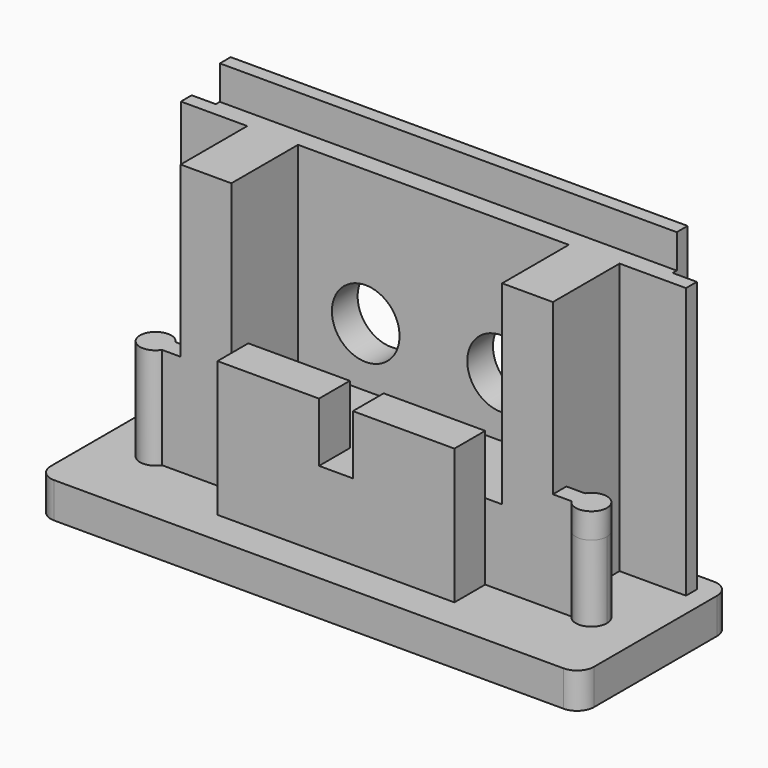
from build123d import *

# Parameters (mm, degrees)
F1_DEPTH  = 2.1
F2_W      = 27
F2_H      = 1.1
F3_DEPTH  = 4.5
F4_DEPTH  = 11.5
F5_R      = 2
F6_DEPTH  = 25
F7_W      = 22
F7_H      = 3.925
F8_DEPTH  = 4.5
F10_DEPTH = 11.5
F11_W     = 6
F11_H     = 2.275
F12_DEPTH = 8
F13_W     = 27
F13_H     = 0.8
F14_DEPTH = 2
F15_W     = 2
F15_H     = 2.275
F16_DEPTH = 4.5
F18_DEPTH = 10


with BuildPart() as f1:
    # F0 (on Top) → F1 (new body)
    with BuildSketch(Plane.XY):
        with BuildLine():
            Line((15.05, 5.55), (-15.05, 5.55))
            ThreePointArc((-15.05, 5.55), (-15.7571067812, 5.2571067812), (-16.05, 4.55))
            Line((-16.05, 4.55), (-16.05, -4.55))
            ThreePointArc((-16.05, -4.55), (-15.7571067812, -5.2571067812), (-15.05, -5.55))
            Line((-15.05, -5.55), (15.05, -5.55))
            ThreePointArc((15.05, -5.55), (15.7571067812, -5.2571067812), (16.05, -4.55))
            Line((16.05, -4.55), (16.05, 4.55))
            ThreePointArc((16.05, 4.55), (15.7571067812, 5.2571067812), (15.05, 5.55))
        make_face()
    extrude(amount=F1_DEPTH)

    # F2 (on face) → F3 (join)
    with BuildSketch(Plane.XY.offset(2.1)):
        with BuildLine():
            ThreePointArc((13.8, -0.775), (13.1355497201, 0.1125465303), (12.0967808792, -0.275))
            Line((12.0967808792, -0.275), (12.875, -0.275))
            Line((12.875, -0.275), (12.875, -1.275))
            Line((12.875, -1.275), (12.0967808792, -1.275))
            ThreePointArc((12.0967808792, -1.275), (13.1355497201, -1.6625465303), (13.8, -0.775))
        make_face()
        with BuildLine():
            ThreePointArc((-12.0967808792, -0.275), (-11.9874534697, -0.5144502799), (-11.95, -0.775))
            ThreePointArc((-11.95, -0.775), (-11.9874534697, -1.0355497201), (-12.0967808792, -1.275))
            Line((-12.0967808792, -1.275), (12.0967808792, -1.275))
            ThreePointArc((12.0967808792, -1.275), (11.95, -0.775), (12.0967808792, -0.275))
            Line((12.0967808792, -0.275), (-12.0967808792, -0.275))
        make_face()
        with BuildLine():
            Line((12.875, -0.275), (12.0967808792, -0.275))
            ThreePointArc((12.0967808792, -0.275), (11.95, -0.775), (12.0967808792, -1.275))
            Line((12.0967808792, -1.275), (12.875, -1.275))
            Line((12.875, -1.275), (12.875, -0.275))
        make_face()
        with BuildLine():
            Line((-12.875, -0.275), (-12.0967808792, -0.275))
            ThreePointArc((-12.0967808792, -0.275), (-13.8, -0.775), (-12.0967808792, -1.275))
            Line((-12.0967808792, -1.275), (-12.875, -1.275))
            Line((-12.875, -1.275), (-12.875, -0.275))
        make_face()
        with BuildLine():
            ThreePointArc((-12.0967808792, -1.275), (-11.9874534697, -1.0355497201), (-11.95, -0.775))
            ThreePointArc((-11.95, -0.775), (-11.9874534697, -0.5144502799), (-12.0967808792, -0.275))
            Line((-12.0967808792, -0.275), (-12.875, -0.275))
            Line((-12.875, -0.275), (-12.875, -1.275))
            Line((-12.875, -1.275), (-12.0967808792, -1.275))
        make_face()
        Polygon((13.5, 4.45), (-13.5, 4.45), (-14.925, 4.45), (-14.925, 3.65), (14.925, 3.65), (14.925, 4.45), align=None)
        with Locations((0, 5)):
            Rectangle(F2_W, F2_H)
    extrude(amount=F3_DEPTH)

    # F4 (add): a face of the model
    f4_faces = [f1.faces().sort_by_distance(p)[0] for p in [
        (0, 4.5765957447, 6.6),
    ]]
    extrude(f4_faces, amount=F4_DEPTH)

    # F5 (on face) → F6 (cut)
    with BuildSketch(Plane(origin=(0, 5.55, 0), x_dir=(-1, 0, 0), z_dir=(0, 1, 0))):
        with Locations((4, 10.1)):
            Circle(F5_R)
        with Locations((-4, 10.1)):
            Circle(F5_R)
    extrude(amount=-F6_DEPTH, mode=Mode.SUBTRACT)

    # F7 (on face) → F8 (join, through all)
    with BuildSketch(Plane.XY.offset(2.1)):
        with Locations((0, 1.6875)):
            Rectangle(F7_W, F7_H)
    extrude(amount=F8_DEPTH)

    # F9 (on face) → F10 (join, through all)
    with BuildSketch(Plane.XY.offset(6.6)):
        with BuildLine():
            Line((-11, -0.275), (-12.0967808792, -0.275))
            ThreePointArc((-12.0967808792, -0.275), (-13.8, -0.775), (-12.0967808792, -1.275))
            Line((-12.0967808792, -1.275), (-8, -1.275))
            Line((-8, -1.275), (-8, 3.65))
            Line((-8, 3.65), (-11, 3.65))
            Line((-11, 3.65), (-11, -0.275))
        make_face()
        with BuildLine():
            Line((8, 3.65), (8, -1.275))
            Line((8, -1.275), (12.0967808792, -1.275))
            ThreePointArc((12.0967808792, -1.275), (13.8, -0.775), (12.0967808792, -0.275))
            Line((12.0967808792, -0.275), (11, -0.275))
            Line((11, -0.275), (11, 3.65))
            Line((11, 3.65), (8, 3.65))
        make_face()
    extrude(amount=F10_DEPTH)

    # F11 (on face) → F12 (join)
    with BuildSketch(Plane.XY.offset(2.1)):
        with Locations((-4, -2.4125)):
            Rectangle(F11_W, F11_H)
        with Locations((4, -2.4125)):
            Rectangle(F11_W, F11_H)
    extrude(amount=F12_DEPTH)

    # F13 (on face) → F14 (join)
    with BuildSketch(Plane.XY.offset(18.1)):
        with Locations((0, 5.15)):
            Rectangle(F13_W, F13_H)
    extrude(amount=F14_DEPTH)

    # F15 (on face) → F16 (join, through all)
    with BuildSketch(Plane.XY.offset(2.1)):
        with Locations((0, -2.4125)):
            Rectangle(F15_W, F15_H)
    extrude(amount=F16_DEPTH)

    # F17 (on face) → F18 (cut)
    with BuildSketch(Plane.XY.offset(18.1)):
        with BuildLine():
            Line((-11, -1.275), (-11, -0.275))
            Line((-11, -0.275), (-12.0967808792, -0.275))
            ThreePointArc((-12.0967808792, -0.275), (-13.8, -0.775), (-12.0967808792, -1.275))
            Line((-12.0967808792, -1.275), (-11, -1.275))
        make_face()
        with BuildLine():
            Line((12.0967808792, -0.275), (11, -0.275))
            Line((11, -0.275), (11, -1.275))
            Line((11, -1.275), (12.0967808792, -1.275))
            ThreePointArc((12.0967808792, -1.275), (13.8, -0.775), (12.0967808792, -0.275))
        make_face()
    extrude(amount=-F18_DEPTH, mode=Mode.SUBTRACT)


solid = f1.part
